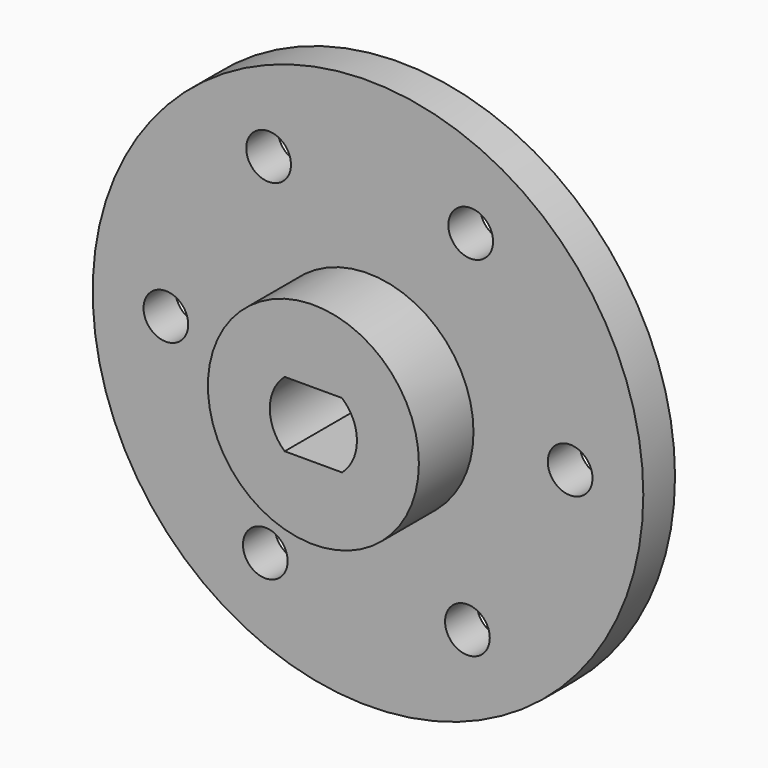
from build123d import *

# Parameters (mm, degrees)
F0_R     = 12.1666
F1_DEPTH = 12.446
F0_R_2   = 31.75
F0_R_3   = 2.5781
F2_DEPTH = 4.572


with BuildPart() as f1:
    # F0 (on Front) → F1 (new body)
    with BuildSketch(Plane.XZ):
        Circle(F0_R)
        with BuildLine():
            ThreePointArc((3.30966, 3.77825), (5.02285, 0), (3.30966, -3.77825))
            Line((3.30966, -3.77825), (-3.30966, -3.77825))
            ThreePointArc((-3.30966, -3.77825), (-5.02285, 0), (-3.30966, 3.77825))
            Line((-3.30966, 3.77825), (3.30966, 3.77825))
        make_face(mode=Mode.SUBTRACT)
    extrude(amount=F1_DEPTH)

    # F0 (on Front) → F2 (join)
    with BuildSketch(Plane.XZ):
        Circle(F0_R_2)
        with Locations((-11.844468, -20.0771)):
            Circle(F0_R_3, mode=Mode.SUBTRACT)
        with Locations((11.465044, -20.29616)):
            Circle(F0_R_3, mode=Mode.SUBTRACT)
        with Locations((23.309512, -0.21906)):
            Circle(F0_R_3, mode=Mode.SUBTRACT)
        with Locations((-23.309512, 0.21906)):
            Circle(F0_R_3, mode=Mode.SUBTRACT)
        with Locations((-11.465044, 20.29616)):
            Circle(F0_R_3, mode=Mode.SUBTRACT)
        Circle(F0_R, mode=Mode.SUBTRACT)
        with Locations((11.844468, 20.0771)):
            Circle(F0_R_3, mode=Mode.SUBTRACT)
    extrude(amount=F2_DEPTH)


solid = f1.part
